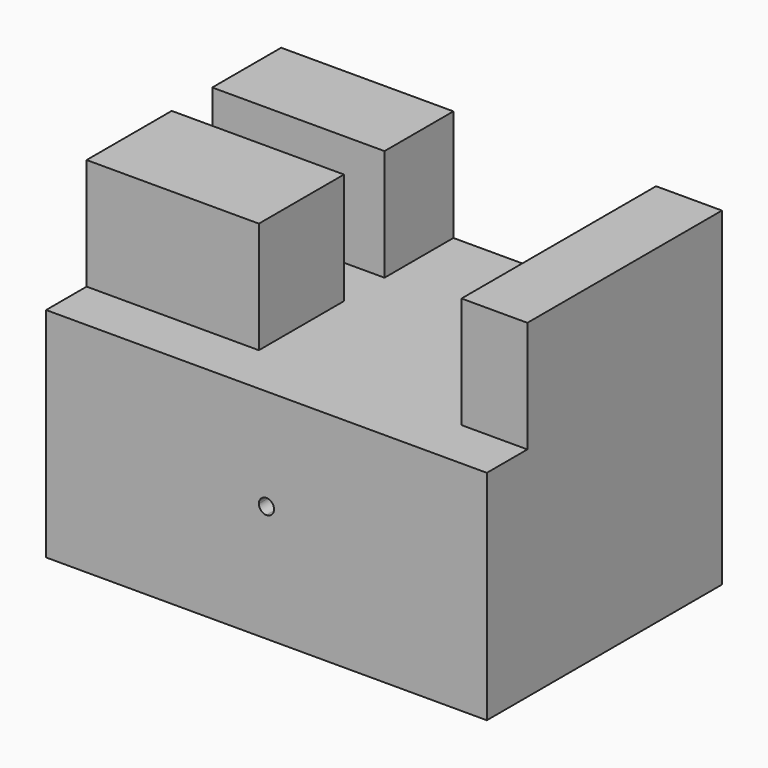
from build123d import *

# Parameters (mm, degrees)
F0_W     = 87
F0_H     = 58
F1_DEPTH = 65
F2_W     = 10
F2_H     = 22
F3_DEPTH = 74
F4_W     = 9.5
F4_H     = 22
F4_W_2   = 30.5
F5_DEPTH = 58
F6_DEPTH = 90
F7_DEPTH = 99


with BuildPart() as f1:
    # F0 (on Top) → F1 (new body)
    with BuildSketch(Plane.XY):
        Rectangle(F0_W, F0_H)
    extrude(amount=F1_DEPTH)

    # F2 (on face) → F3 (cut)
    with BuildSketch(Plane(origin=(-43.5, 0, 0), x_dir=(0, -1, 0), z_dir=(-1, 0, 0))):
        with Locations((-7, 54)):
            Rectangle(F2_W, F2_H)
    extrude(amount=-F3_DEPTH, mode=Mode.SUBTRACT)

    # F4 (on face) → F5 (cut)
    with BuildSketch(Plane.XZ.offset(29)):
        with Locations((-4.75, 54)):
            Rectangle(F4_W, F4_H)
        with Locations((15.25, 54)):
            Rectangle(F4_W_2, F4_H)
    extrude(amount=-F5_DEPTH, mode=Mode.SUBTRACT)

    # F2 (on face) → F6 (cut)
    with BuildSketch(Plane(origin=(-43.5, 0, 0), x_dir=(0, -1, 0), z_dir=(-1, 0, 0))):
        with Locations((24, 54)):
            Rectangle(F2_W, F2_H)
    extrude(amount=-F6_DEPTH, mode=Mode.SUBTRACT)

    # F4 (on face) → F7 (cut)
    with BuildSketch(Plane.XZ.offset(29)):
        with BuildLine():
            ThreePointArc((1.5, 23), (1.0606601718, 24.0606601718), (0, 24.5))
            Line((0, 24.5), (0, 23))
            Line((0, 23), (1.5, 23))
        make_face()
        with BuildLine():
            ThreePointArc((0, 24.5), (-1.0606601718, 24.0606601718), (-1.5, 23))
            Line((-1.5, 23), (0, 23))
            Line((0, 23), (0, 24.5))
        make_face()
        with BuildLine():
            Line((0, 23), (-1.5, 23))
            ThreePointArc((-1.5, 23), (-1.0606601718, 21.9393398282), (0, 21.5))
            Line((0, 21.5), (0, 23))
        make_face()
        with BuildLine():
            Line((1.2536412571, 22.1763595454), (0, 23))
            Line((0, 23), (0, 21.5))
            ThreePointArc((0, 21.5), (0.7122286565, 21.6798748768), (1.2536412571, 22.1763595454))
        make_face()
        with BuildLine():
            Line((1.5, 23), (0, 23))
            Line((0, 23), (1.2536412571, 22.1763595454))
            ThreePointArc((1.2536412571, 22.1763595454), (1.4370911394, 22.5701522861), (1.5, 23))
        make_face()
    extrude(amount=-F7_DEPTH, mode=Mode.SUBTRACT)


solid = f1.part
